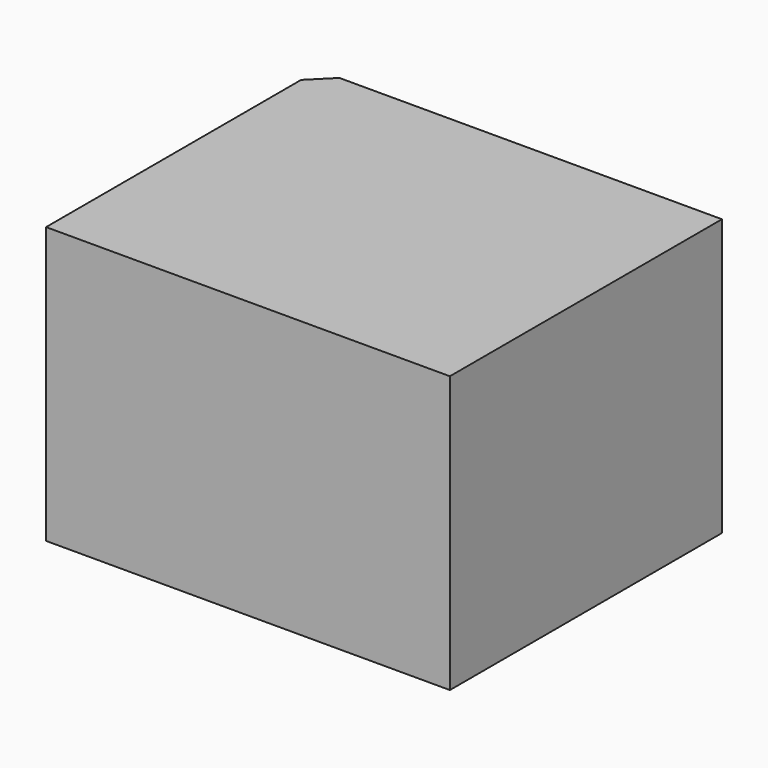
from build123d import *

# Parameters (mm, degrees)
CYLINDER1785_R     = 5
CYLINDER1785_DEPTH = 3
CYLINDER1786_R     = 2.5
CYLINDER1786_DEPTH = 20
CYLINDER1781_R     = 1.5
CYLINDER1781_DEPTH = 20
CYLINDER1783_R     = 1.5
CYLINDER1783_DEPTH = 20
CYLINDER1784_R     = 1.5
CYLINDER1784_DEPTH = 20
CYLINDER1782_R     = 1.5
CYLINDER1782_DEPTH = 20
BOX744_W           = 6
BOX744_H           = 6
BOX744_DEPTH       = 2
BOX746_W           = 6
BOX746_H           = 6
BOX746_DEPTH       = 2
BOX745_W           = 6
BOX745_H           = 6
BOX745_DEPTH       = 2
BOX742_W           = 6
BOX742_H           = 6
BOX742_DEPTH       = 2
BOX743_W           = 20
BOX743_H           = 80
BOX743_DEPTH       = 20
BOX747_W           = 38
BOX747_H           = 32
BOX747_DEPTH       = 26
CHAMFER060_SIZE    = 2


with BuildPart() as obj1:
    # Cylinder1785 → Cylinder1785 (new body)
    with BuildSketch(Plane(origin=(-112, 16, 66), x_dir=(0, 0, -1), z_dir=(1, 0, 0))):
        Circle(CYLINDER1785_R)
    extrude(amount=CYLINDER1785_DEPTH)


with BuildPart() as obj2:
    # Cylinder1786 → Cylinder1786 (new body)
    with BuildSketch(Plane(origin=(-117, 16, 66), x_dir=(0, 0, -1), z_dir=(1, 0, 0))):
        Circle(CYLINDER1786_R)
    extrude(amount=CYLINDER1786_DEPTH)


with BuildPart() as obj3:
    # Cylinder1781 → Cylinder1781 (new body)
    with BuildSketch(Plane(origin=(-83, 25, 54), x_dir=(1, 0, 0), z_dir=(0, 0, 1))):
        Circle(CYLINDER1781_R)
    extrude(amount=CYLINDER1781_DEPTH)


with BuildPart() as obj4:
    # Cylinder1783 → Cylinder1783 (new body)
    with BuildSketch(Plane(origin=(-109, 7, 54), x_dir=(1, 0, 0), z_dir=(0, 0, 1))):
        Circle(CYLINDER1783_R)
    extrude(amount=CYLINDER1783_DEPTH)


with BuildPart() as obj5:
    # Cylinder1784 → Cylinder1784 (new body)
    with BuildSketch(Plane(origin=(-109, 25, 54), x_dir=(1, 0, 0), z_dir=(0, 0, 1))):
        Circle(CYLINDER1784_R)
    extrude(amount=CYLINDER1784_DEPTH)


with BuildPart() as compound913:
    # Cylinder1782 → Cylinder1782 (new body)
    with BuildSketch(Plane(origin=(-83, 7, 54), x_dir=(1, 0, 0), z_dir=(0, 0, 1))):
        Circle(CYLINDER1782_R)
    extrude(amount=CYLINDER1782_DEPTH)

    # Compound913: union obj3, obj4, obj5
    add(obj3.part)
    add(obj4.part)
    add(obj5.part)


with BuildPart() as krychle744:
    # Box744 → Box744 (new body)
    with BuildSketch(Plane(origin=(-112, 22, 60), x_dir=(1, 0, 0), z_dir=(0, 0, 1))):
        with Locations((3, 3)):
            Rectangle(BOX744_W, BOX744_H)
    extrude(amount=BOX744_DEPTH)


with BuildPart() as krychle746:
    # Box746 → Box746 (new body)
    with BuildSketch(Plane(origin=(-86, 4, 60), x_dir=(1, 0, 0), z_dir=(0, 0, 1))):
        with Locations((3, 3)):
            Rectangle(BOX746_W, BOX746_H)
    extrude(amount=BOX746_DEPTH)


with BuildPart() as krychle745:
    # Box745 → Box745 (new body)
    with BuildSketch(Plane(origin=(-86, 22, 60), x_dir=(1, 0, 0), z_dir=(0, 0, 1))):
        with Locations((3, 3)):
            Rectangle(BOX745_W, BOX745_H)
    extrude(amount=BOX745_DEPTH)


with BuildPart() as compound912:
    # Box742 → Box742 (new body)
    with BuildSketch(Plane(origin=(-112, 4, 60), x_dir=(1, 0, 0), z_dir=(0, 0, 1))):
        with Locations((3, 3)):
            Rectangle(BOX742_W, BOX742_H)
    extrude(amount=BOX742_DEPTH)

    # Compound912: union Krychle744, Krychle746, Krychle745
    add(krychle744.part)
    add(krychle746.part)
    add(krychle745.part)


with BuildPart() as krychle743:
    # Box743 → Box743 (new body)
    with BuildSketch(Plane(origin=(-106, 4, 56), x_dir=(1, 0, 0), z_dir=(0, 0, 1))):
        with Locations((10, 40)):
            Rectangle(BOX743_W, BOX743_H)
    extrude(amount=BOX743_DEPTH)


with BuildPart() as chamfer060:
    # Box747 → Box747 (new body)
    with BuildSketch(Plane(origin=(-112, 0, 56), x_dir=(1, 0, 0), z_dir=(0, 0, 1))):
        with Locations((19, 16)):
            Rectangle(BOX747_W, BOX747_H)
    extrude(amount=BOX747_DEPTH)

    # Cut546: cut Krychle743
    add(krychle743.part, mode=Mode.SUBTRACT)

    # Cut547: cut Compound912
    add(compound912.part, mode=Mode.SUBTRACT)

    # Cut541: cut Compound913
    add(compound913.part, mode=Mode.SUBTRACT)

    # Cut542: cut obj2
    add(obj2.part, mode=Mode.SUBTRACT)

    # Cut543: cut obj1
    add(obj1.part, mode=Mode.SUBTRACT)

    # Chamfer060
    chamfer060_edges = [chamfer060.edges().sort_by_distance(p)[0] for p in [
        (-112, 32, 69),
    ]]
    chamfer(chamfer060_edges, length=CHAMFER060_SIZE)


with BuildPart() as chamfer060_1:
    # Chamfer060 placement: moved
    add(chamfer060.part.moved(Location((0, 0, 2))))


solid = chamfer060_1.part
